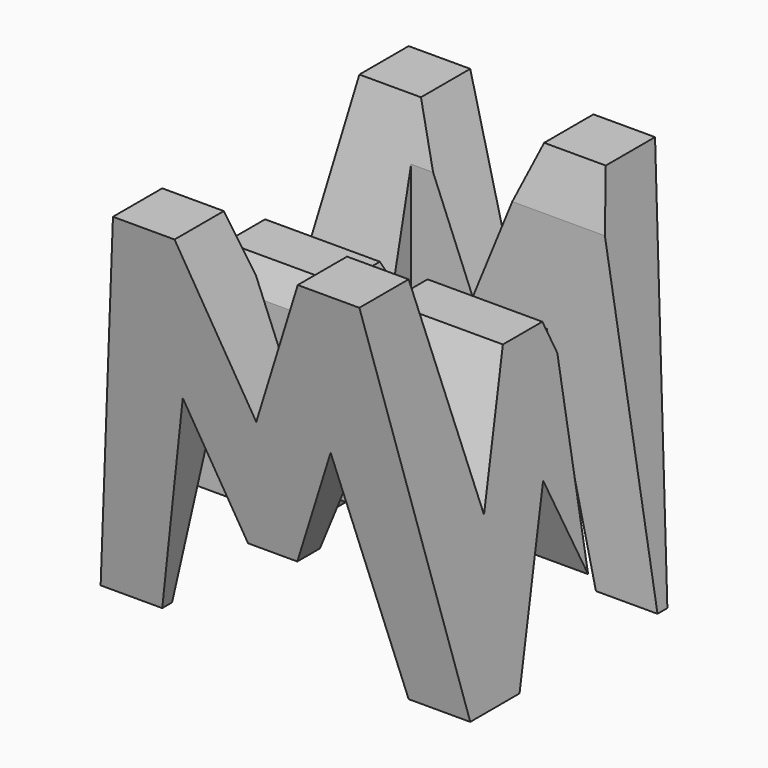
from build123d import *

# Parameters (mm, degrees)
F0_W      = 38.1
F0_H      = 38.1
F1_DEPTH  = 38.1
F6_DEPTH  = 38.1
F8_DEPTH  = 38.1
F9_W      = 25.4
F9_H      = 7.62
F10_DEPTH = 38.1


with BuildPart() as f1:
    # F0 (on Front) → F1 (new body)
    with BuildSketch(Plane.XZ):
        with Locations((19.05, 19.05)):
            Rectangle(F0_W, F0_H)
    extrude(amount=F1_DEPTH)

    # F5 (on offset) → F6 (cut)
    with BuildSketch(Plane.YZ.offset(38.1)):
        Polygon((-11.43, 15.875), (-6.35, 38.1), (-31.75, 38.1), (-26.67, 15.875), (-21.59, 28.575), (-16.51, 28.575), align=None)
        Polygon((-38.1, 0), (-31.75, 0), (-38.1, 38.1), align=None)
        Polygon((-25.4, 0), (-12.7, 0), (-19.05, 15.875), align=None)
        Polygon((-6.35, 0), (0, 0), (0, 38.1), align=None)
    extrude(amount=-F6_DEPTH, mode=Mode.SUBTRACT)

    # F7 (on offset) → F8 (cut)
    with BuildSketch(Plane.XZ.offset(38.1)):
        Polygon((0, 38.1), (0, 0), (6.35, 38.1), align=None)
        Polygon((25.4, 38.1), (12.7, 38.1), (19.05, 22.555536744), align=None)
        Polygon((31.75, 38.1), (38.1, 0), (38.1, 38.1), align=None)
        Polygon((11.43, 22.225), (6.35, 0), (31.75, 0), (26.67, 22.225), (21.59, 9.855536744), (16.51, 9.855536744), align=None)
    extrude(amount=-F8_DEPTH, mode=Mode.SUBTRACT)

    # F9 (on offset) → F10 (cut)
    with BuildSketch(Plane.XY.offset(38.1)):
        with Locations((25.4, -11.43)):
            Rectangle(F9_W, F9_H)
        with Locations((12.7, -26.67)):
            Rectangle(F9_W, F9_H)
    extrude(amount=-F10_DEPTH, mode=Mode.SUBTRACT)


solid = f1.part
